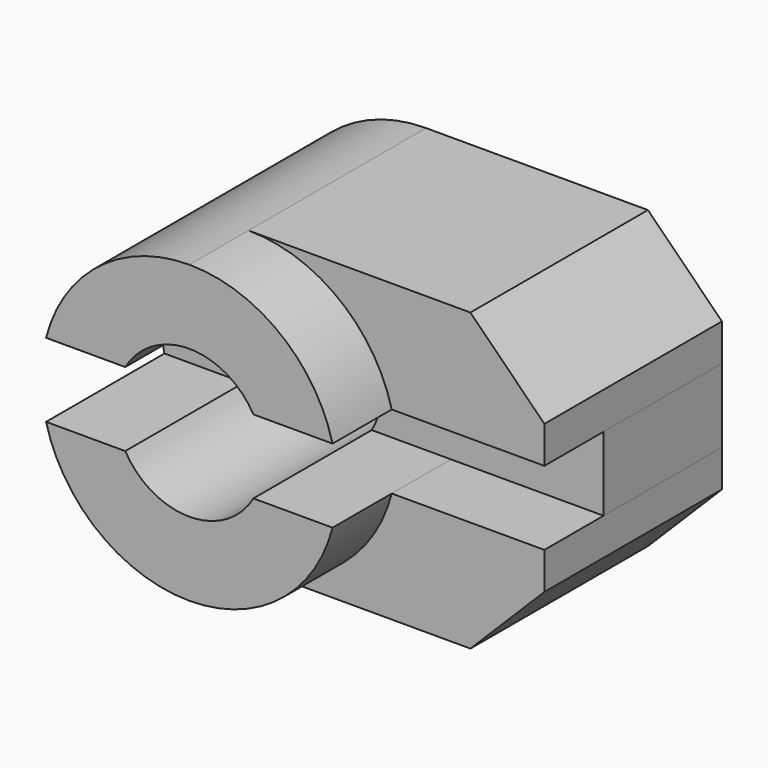
from build123d import *

# Parameters (mm, degrees)
F1_DEPTH = 20
F2_DEPTH = 10
F3_DEPTH = 15


with BuildPart() as f1:
    # F0 (on Front) → F1 (new body)
    with BuildSketch(Plane.XZ):
        with BuildLine():
            ThreePointArc((-4.330127, 2.5), (0, 5), (4.330127, 2.5))
            Line((4.330127, 2.5), (9.682458, 2.5))
            ThreePointArc((9.682458, 2.5), (6.123724, 7.905694), (0, 10))
            ThreePointArc((0, 10), (-6.123724, 7.905694), (-9.682458, 2.5))
            Line((-9.682458, 2.5), (-4.330127, 2.5))
        make_face()
        with BuildLine():
            Line((9.682458, -2.5), (4.330127, -2.5))
            ThreePointArc((4.330127, -2.5), (0, -5), (-4.330127, -2.5))
            Line((-4.330127, -2.5), (-9.682458, -2.5))
            ThreePointArc((-9.682458, -2.5), (-6.123724, -7.905694), (0, -10))
            ThreePointArc((0, -10), (6.123724, -7.905694), (9.682458, -2.5))
        make_face()
    extrude(amount=F1_DEPTH)


with BuildPart() as f2:
    # F0 (on Front) → F2 (new body)
    with BuildSketch(Plane.XZ):
        with BuildLine():
            ThreePointArc((-4.330127, -2.5), (-5, 0), (-4.330127, 2.5))
            Line((-4.330127, 2.5), (-9.682458, 2.5))
            ThreePointArc((-9.682458, 2.5), (-10, 0), (-9.682458, -2.5))
            Line((-9.682458, -2.5), (-4.330127, -2.5))
        make_face()
        with BuildLine():
            ThreePointArc((4.330127, 2.5), (4.829629, 1.294095), (5, 0))
            ThreePointArc((5, 0), (4.829629, -1.294095), (4.330127, -2.5))
            Line((4.330127, -2.5), (9.682458, -2.5))
            Line((9.682458, -2.5), (20, -2.5))
            Line((20, -2.5), (20, 2.5))
            Line((20, 2.5), (9.682458, 2.5))
            Line((9.682458, 2.5), (4.330127, 2.5))
        make_face()
    extrude(amount=F2_DEPTH)


with BuildPart() as f3:
    # F0 (on Front) → F3 (new body)
    with BuildSketch(Plane.XZ):
        with BuildLine():
            ThreePointArc((0, 10), (6.123724, 7.905694), (9.682458, 2.5))
            Line((9.682458, 2.5), (20, 2.5))
            Line((20, 2.5), (20, 5))
            Line((20, 5), (15, 10))
            Line((15, 10), (0, 10))
        make_face()
        with BuildLine():
            Line((20, -2.5), (9.682458, -2.5))
            ThreePointArc((9.682458, -2.5), (6.123724, -7.905694), (0, -10))
            Line((0, -10), (15, -10))
            Line((15, -10), (20, -5))
            Line((20, -5), (20, -2.5))
        make_face()
    extrude(amount=F3_DEPTH)


solid = Compound([f1.part, f2.part, f3.part])
